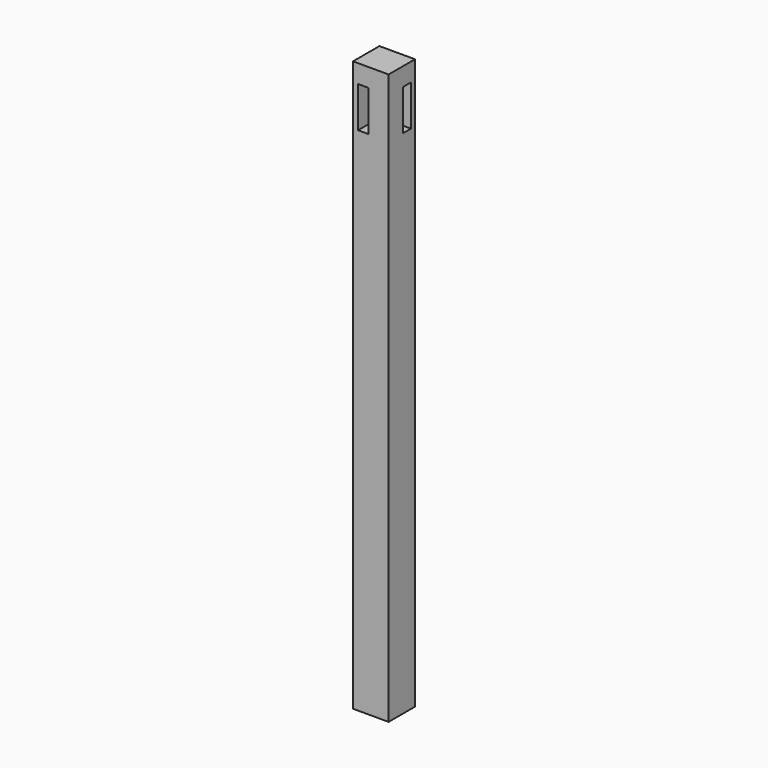
from build123d import *

# Parameters (mm, degrees)
F0_W     = 44.45
F0_H     = 41.148
F1_DEPTH = 355.6
F2_W     = 12.7
F2_H     = 50.8
F3_DEPTH = 19.05
F4_W     = 12.7
F4_H     = 50.8
F5_DEPTH = 19.05


with BuildPart() as f1:
    # F0 (on Top) → F1 (new body, symmetric)
    with BuildSketch(Plane.XY):
        with Locations((-5.032887, 11.366384)):
            Rectangle(F0_W, F0_H)
    extrude(amount=F1_DEPTH, both=True)

    # F2 (on face) → F3 (cut)
    with BuildSketch(Plane.XZ.offset(9.207616)):
        with Locations((-14.557887, 307.34)):
            Rectangle(F2_W, F2_H)
    extrude(amount=-F3_DEPTH, mode=Mode.SUBTRACT)

    # F4 (on face) → F5 (cut)
    with BuildSketch(Plane.YZ.offset(17.192113)):
        with Locations((19.240384, 307.34)):
            Rectangle(F4_W, F4_H)
    extrude(amount=-F5_DEPTH, mode=Mode.SUBTRACT)


with BuildPart() as f6_1:
    # F6: copy of F1
    add(f1.part)


with BuildPart() as f8_1:
    # F8: copy of F1
    add(f1.part)


with BuildPart() as f10_1:
    # F10: copy of F1
    add(f1.part)


solid = f1.part
